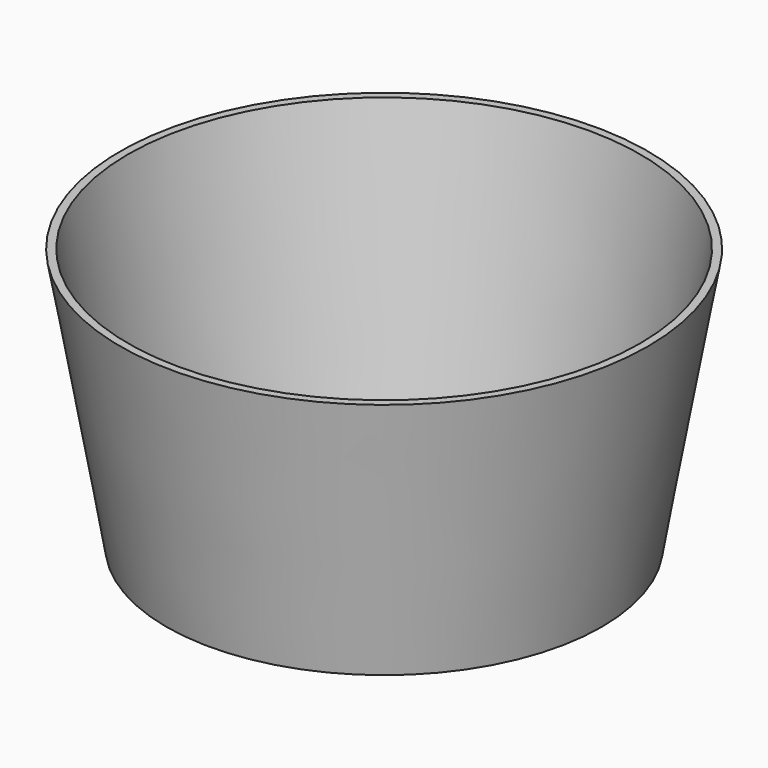
from build123d import *

# Parameters (mm, degrees)
F0_R     = 70.9620119047
F1_DEPTH = 85.3713508695
F1_TAPER = -10
F2_T     = -2.54


with BuildPart() as f1:
    # F0 (on Top) → F1 (new body)
    with BuildSketch(Plane.XY):
        with Locations((-58.160059154, 94.1370725632)):
            Circle(F0_R)
    extrude(amount=F1_DEPTH, taper=F1_TAPER)

    # F2
    f2_openings = [f1.faces().sort_by_distance(p)[0] for p in [
        (-58.160059, 94.137073, 85.371351),
    ]]
    offset(amount=F2_T, openings=f2_openings, kind=Kind.INTERSECTION)


solid = f1.part
